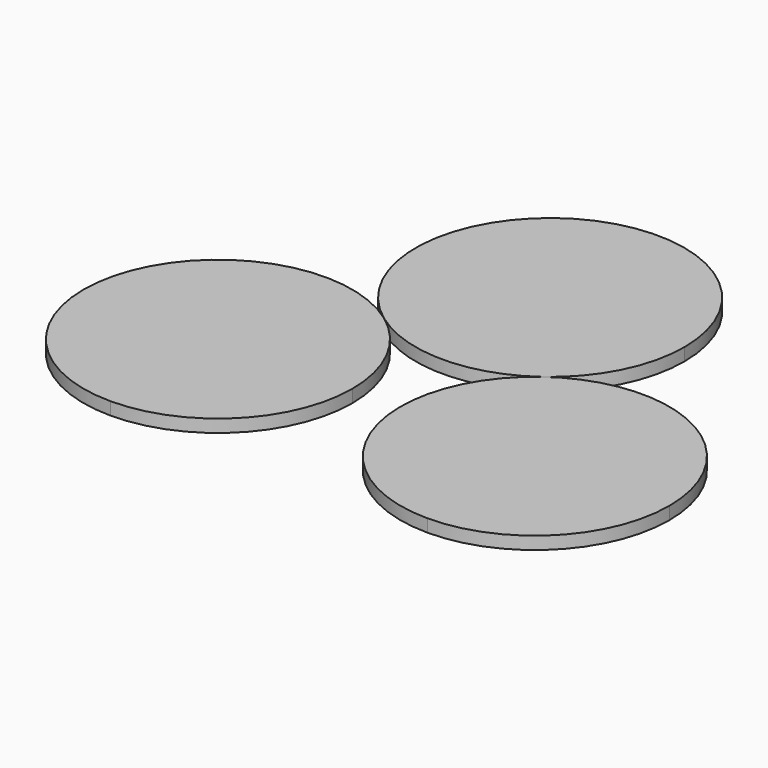
from build123d import *

# Parameters (mm, degrees)
F1_DEPTH = 5


with BuildPart() as f1:
    # F0 (on Top) → F1 (new body)
    with BuildSketch(Plane.XY):
        with BuildLine():
            ThreePointArc((-571.091319, 95.806978), (-539.84132, 85.613959), (-508.591321, 95.80698))
            ThreePointArc((-508.591321, 95.80698), (-492.59066, 114.606148), (-486.841321, 138.613959))
            ThreePointArc((-486.841321, 138.613959), (-563.849133, 185.86462), (-571.091319, 95.806978))
        make_face()
        with BuildLine():
            ThreePointArc((-549.341321, 53), (-555.090659, 77.00781), (-571.091319, 95.806978))
            ThreePointArc((-571.091319, 95.806978), (-626.349131, 100.250662), (-655.341321, 53))
            ThreePointArc((-655.341321, 53), (-639.81798, 15.523341), (-602.341321, 0))
            ThreePointArc((-602.341321, 0), (-564.864662, 15.523341), (-549.341321, 53))
        make_face()
        with BuildLine():
            ThreePointArc((-424.341321, 53), (-430.090659, 77.00781), (-446.091319, 95.806978))
            ThreePointArc((-446.091319, 95.806978), (-477.34132, 106), (-508.591321, 95.80698))
            ThreePointArc((-508.591321, 95.80698), (-527.72867, 36.564823), (-477.341321, 0))
            ThreePointArc((-477.341321, 0), (-439.864662, 15.523341), (-424.341321, 53))
        make_face()
    extrude(amount=-F1_DEPTH)


solid = f1.part
